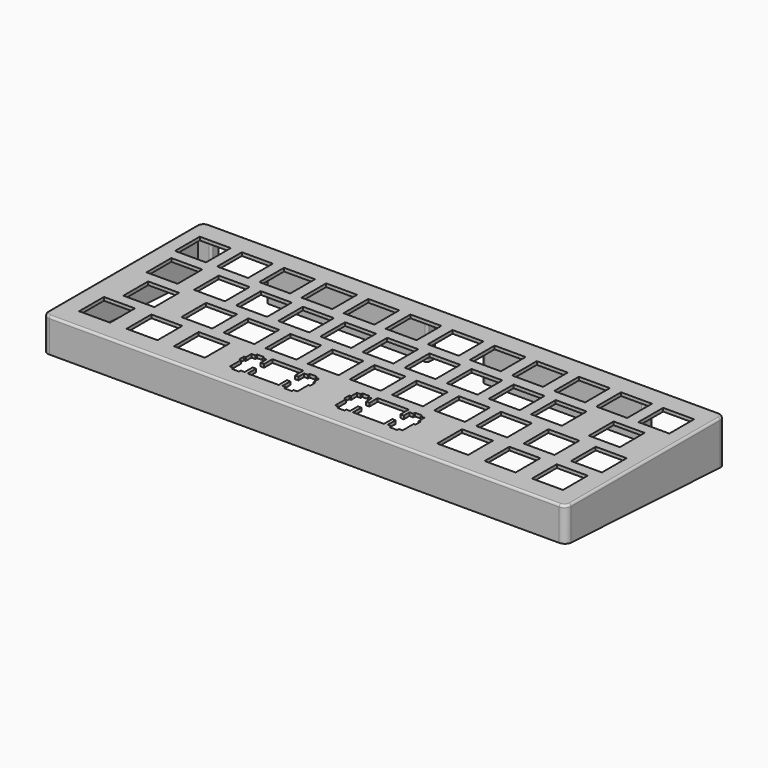
from build123d import *

# Parameters (mm, degrees)
SKETCH_W        = 13.99949
SKETCH_H        = 13.99946
SKETCH_W_2      = 13.9993
SKETCH_W_3      = 14.0007
SKETCH_W_4      = 13.999
SKETCH_W_5      = 14
SKETCH_W_6      = 14.001
SKETCH_W_7      = 14.00087
SKETCH_H_2      = 13.9994
SKETCH_W_8      = 13.9998
SKETCH_H_3      = 13.9993
SKETCH_W_9      = 13.99955
PAD_DEPTH       = 20
SKETCH001_W     = 232.5999154
SKETCH001_H     = 80.199807
POCKET_DEPTH    = 18.5
SKETCH002_W     = 25
SKETCH002_H     = 5
POCKET001_DEPTH = 18.5
POCKET002_DEPTH = 236.6009154
FILLET_R        = 1


with BuildPart() as part:
    # Sketch → Pad (new body)
    with BuildSketch(Plane.XY):
        with BuildLine():
            ThreePointArc((233.5999154, 0), (235.7212357436, 0.8786796564), (236.5999154, 3))
            Line((236.5999154, 87.199807), (236.5999154, 3))
            ThreePointArc((236.5999154, 87.199807), (235.7212357436, 89.3211273436), (233.5999154, 90.199807))
            Line((3, 90.199807), (233.5999154, 90.199807))
            ThreePointArc((3, 90.199807), (0.8786796564, 89.3211273436), (0, 87.199807))
            Line((0, 3), (0, 87.199807))
            ThreePointArc((0, 3), (0.8786796564, 0.8786796564), (3, 0))
            Line((233.5999154, 0), (3, 0))
        make_face()
        Polygon((85.1059154, 23.525407), (85.1059154, 18.824907), (83.5805154, 18.824907), (83.5805154, 22.055107), (81.8550154, 22.055107), (81.8550154, 22.977007), (78.5559154, 22.977007), (78.5559154, 22.055107), (76.8308154, 22.055107), (76.8308154, 18.824907), (76.0053154, 18.824907), (76.0053154, 16.026147), (76.8308154, 16.026147), (76.8308154, 9.756077), (78.5559154, 9.756077), (78.5559154, 8.774917), (81.8550154, 8.774917), (81.8550154, 9.756077), (83.5805154, 9.756077), (83.5805154, 14.225037), (85.1059154, 14.225037), (85.1059154, 9.525947), (99.1052154, 9.525947), (99.1052154, 14.225037), (100.6309154, 14.225037), (100.6309154, 9.756077), (102.3546154, 9.756077), (102.3546154, 8.774917), (105.6549154, 8.774917), (105.6549154, 9.756077), (107.3799154, 9.756077), (107.3799154, 16.026147), (108.2059154, 16.026147), (108.2059154, 18.824907), (107.3799154, 18.824907), (107.3799154, 22.055107), (105.6549154, 22.055107), (105.6549154, 22.977007), (102.3546154, 22.977007), (102.3546154, 22.055107), (100.6309154, 22.055107), (100.6309154, 18.824907), (99.1052154, 18.824907), (99.1052154, 23.525407), align=None, mode=Mode.SUBTRACT)
        Polygon((132.7309154, 23.525407), (132.7309154, 18.824907), (131.2059154, 18.824907), (131.2059154, 22.055107), (129.4799154, 22.055107), (129.4799154, 22.977007), (126.1809154, 22.977007), (126.1809154, 22.055107), (124.4559154, 22.055107), (124.4559154, 18.824907), (123.6299154, 18.824907), (123.6299154, 16.026147), (124.4559154, 16.026147), (124.4559154, 9.756077), (126.1809154, 9.756077), (126.1809154, 8.774917), (129.4799154, 8.774917), (129.4799154, 9.756077), (131.2059154, 9.756077), (131.2059154, 14.225037), (132.7309154, 14.225037), (132.7309154, 9.525947), (146.7299154, 9.525947), (146.7299154, 14.225037), (148.2559154, 14.225037), (148.2559154, 9.756077), (149.9809154, 9.756077), (149.9809154, 8.774917), (153.2799154, 8.774917), (153.2799154, 9.756077), (155.0049154, 9.756077), (155.0049154, 16.026147), (155.8309154, 16.026147), (155.8309154, 18.824907), (155.0049154, 18.824907), (155.0049154, 22.055107), (153.2799154, 22.055107), (153.2799154, 22.977007), (149.9809154, 22.977007), (149.9809154, 22.055107), (148.2559154, 22.055107), (148.2559154, 18.824907), (146.7299154, 18.824907), (146.7299154, 23.525407), align=None, mode=Mode.SUBTRACT)
        with Locations((15.9055704, 16.525677)):
            Rectangle(SKETCH_W, SKETCH_H, mode=Mode.SUBTRACT)
        with Locations((37.3367654, 16.525677)):
            Rectangle(SKETCH_W_2, SKETCH_H, mode=Mode.SUBTRACT)
        with Locations((58.7673654, 16.525677)):
            Rectangle(SKETCH_W_3, SKETCH_H, mode=Mode.SUBTRACT)
        with Locations((177.8304154, 16.525677)):
            Rectangle(SKETCH_W_4, SKETCH_H, mode=Mode.SUBTRACT)
        with Locations((199.2619154, 16.525677)):
            Rectangle(SKETCH_W_5, SKETCH_H, mode=Mode.SUBTRACT)
        with Locations((220.6924154, 16.525677)):
            Rectangle(SKETCH_W_6, SKETCH_H, mode=Mode.SUBTRACT)
        with Locations((20.6673804, 35.575607)):
            Rectangle(SKETCH_W_7, SKETCH_H_2, mode=Mode.SUBTRACT)
        with Locations((46.8617654, 35.575607)):
            Rectangle(SKETCH_W_2, SKETCH_H_2, mode=Mode.SUBTRACT)
        with Locations((65.9117654, 35.575607)):
            Rectangle(SKETCH_W_2, SKETCH_H_2, mode=Mode.SUBTRACT)
        with Locations((84.9617654, 35.575607)):
            Rectangle(SKETCH_W_2, SKETCH_H_2, mode=Mode.SUBTRACT)
        with Locations((104.0120154, 35.575607)):
            Rectangle(SKETCH_W_8, SKETCH_H_2, mode=Mode.SUBTRACT)
        with Locations((123.0619154, 35.575607)):
            Rectangle(SKETCH_W_5, SKETCH_H_2, mode=Mode.SUBTRACT)
        with Locations((142.1119154, 35.575607)):
            Rectangle(SKETCH_W_5, SKETCH_H_2, mode=Mode.SUBTRACT)
        with Locations((161.1619154, 35.575607)):
            Rectangle(SKETCH_W_5, SKETCH_H_2, mode=Mode.SUBTRACT)
        with Locations((180.2119154, 35.575607)):
            Rectangle(SKETCH_W_5, SKETCH_H_2, mode=Mode.SUBTRACT)
        with Locations((201.6424154, 35.575607)):
            Rectangle(SKETCH_W_6, SKETCH_H_2, mode=Mode.SUBTRACT)
        with Locations((223.0744154, 35.575607)):
            Rectangle(SKETCH_W_4, SKETCH_H_2, mode=Mode.SUBTRACT)
        with Locations((15.9055704, 54.625757)):
            Rectangle(SKETCH_W, SKETCH_H_3, mode=Mode.SUBTRACT)
        with Locations((37.3367654, 54.625757)):
            Rectangle(SKETCH_W_2, SKETCH_H_3, mode=Mode.SUBTRACT)
        with Locations((56.3867654, 54.625757)):
            Rectangle(SKETCH_W_2, SKETCH_H_3, mode=Mode.SUBTRACT)
        with Locations((75.4367654, 54.625757)):
            Rectangle(SKETCH_W_2, SKETCH_H_3, mode=Mode.SUBTRACT)
        with Locations((94.4867654, 54.625757)):
            Rectangle(SKETCH_W_2, SKETCH_H_3, mode=Mode.SUBTRACT)
        with Locations((113.5369154, 54.625757)):
            Rectangle(SKETCH_W_5, SKETCH_H_3, mode=Mode.SUBTRACT)
        with Locations((132.5869154, 54.625757)):
            Rectangle(SKETCH_W_5, SKETCH_H_3, mode=Mode.SUBTRACT)
        with Locations((151.6369154, 54.625757)):
            Rectangle(SKETCH_W_5, SKETCH_H_3, mode=Mode.SUBTRACT)
        with Locations((170.6869154, 54.625757)):
            Rectangle(SKETCH_W_5, SKETCH_H_3, mode=Mode.SUBTRACT)
        with Locations((189.7369154, 54.625757)):
            Rectangle(SKETCH_W_5, SKETCH_H_3, mode=Mode.SUBTRACT)
        with Locations((215.9304154, 54.625757)):
            Rectangle(SKETCH_W_4, SKETCH_H_3, mode=Mode.SUBTRACT)
        with Locations((13.5243404, 73.675757)):
            Rectangle(SKETCH_W_9, SKETCH_H_3, mode=Mode.SUBTRACT)
        with Locations((32.5742654, 73.675757)):
            Rectangle(SKETCH_W_2, SKETCH_H_3, mode=Mode.SUBTRACT)
        with Locations((51.6242654, 73.675757)):
            Rectangle(SKETCH_W_2, SKETCH_H_3, mode=Mode.SUBTRACT)
        with Locations((70.6742654, 73.675757)):
            Rectangle(SKETCH_W_2, SKETCH_H_3, mode=Mode.SUBTRACT)
        with Locations((89.7242654, 73.675757)):
            Rectangle(SKETCH_W_2, SKETCH_H_3, mode=Mode.SUBTRACT)
        with Locations((108.7735654, 73.675757)):
            Rectangle(SKETCH_W_3, SKETCH_H_3, mode=Mode.SUBTRACT)
        with Locations((127.8234154, 73.675757)):
            Rectangle(SKETCH_W_6, SKETCH_H_3, mode=Mode.SUBTRACT)
        with Locations((146.8744154, 73.675757)):
            Rectangle(SKETCH_W_4, SKETCH_H_3, mode=Mode.SUBTRACT)
        with Locations((165.9244154, 73.675757)):
            Rectangle(SKETCH_W_4, SKETCH_H_3, mode=Mode.SUBTRACT)
        with Locations((184.9744154, 73.675757)):
            Rectangle(SKETCH_W_4, SKETCH_H_3, mode=Mode.SUBTRACT)
        with Locations((204.0244154, 73.675757)):
            Rectangle(SKETCH_W_4, SKETCH_H_3, mode=Mode.SUBTRACT)
        with Locations((223.0744154, 73.675757)):
            Rectangle(SKETCH_W_4, SKETCH_H_3, mode=Mode.SUBTRACT)
    extrude(amount=PAD_DEPTH)

    # Sketch001 (on Face257 of Pad) → Pocket (cut)
    with BuildSketch(Plane(origin=(0, 0, 0), x_dir=(1, 0, 0), z_dir=(0, 0, -1))):
        with Locations((118.2999577, -45.0999035)):
            Rectangle(SKETCH001_W, SKETCH001_H)
    extrude(amount=-POCKET_DEPTH, mode=Mode.SUBTRACT)

    # Sketch002 (on Face4 of Pocket) → Pocket001 (cut)
    with BuildSketch(Plane(origin=(0, 0, 0), x_dir=(1, 0, 0), z_dir=(0, 0, -1))):
        with Locations((216.0999154, -87.699807)):
            Rectangle(SKETCH002_W, SKETCH002_H)
        with Locations((118.2999577, -87.699807)):
            Rectangle(SKETCH002_W, SKETCH002_H)
        with Locations((20.5, -87.699807)):
            Rectangle(SKETCH002_W, SKETCH002_H)
    extrude(amount=-POCKET001_DEPTH, mode=Mode.SUBTRACT)

    # Sketch003 (on Face3 of Pocket001) → Pocket002 (cut, through all)
    with BuildSketch(Plane.YZ.offset(236.5999154)):
        Polygon((90.199807, 0), (0, 4.7271715766), (0, 0), align=None)
    extrude(amount=-POCKET002_DEPTH, mode=Mode.SUBTRACT)

    # Fillet
    fillet_edges = [part.edges().sort_by_distance(p)[0] for p in [
        (118.299958, 0, 20),
        (228.599915, 90.199807, 9.25),
        (228.599915, 85.199807, 9.381019),
        (203.599915, 90.199807, 9.25),
        (130.799958, 90.199807, 9.25),
        (105.799958, 90.199807, 9.25),
        (105.799958, 85.199807, 9.381019),
        (203.599915, 85.199807, 9.381019),
        (130.799958, 85.199807, 9.381019),
        (8, 90.199807, 9.25),
        (8, 85.199807, 9.381019),
        (33, 90.199807, 9.25),
        (33, 85.199807, 9.381019),
    ]]
    fillet(fillet_edges, radius=FILLET_R)


solid = part.part
